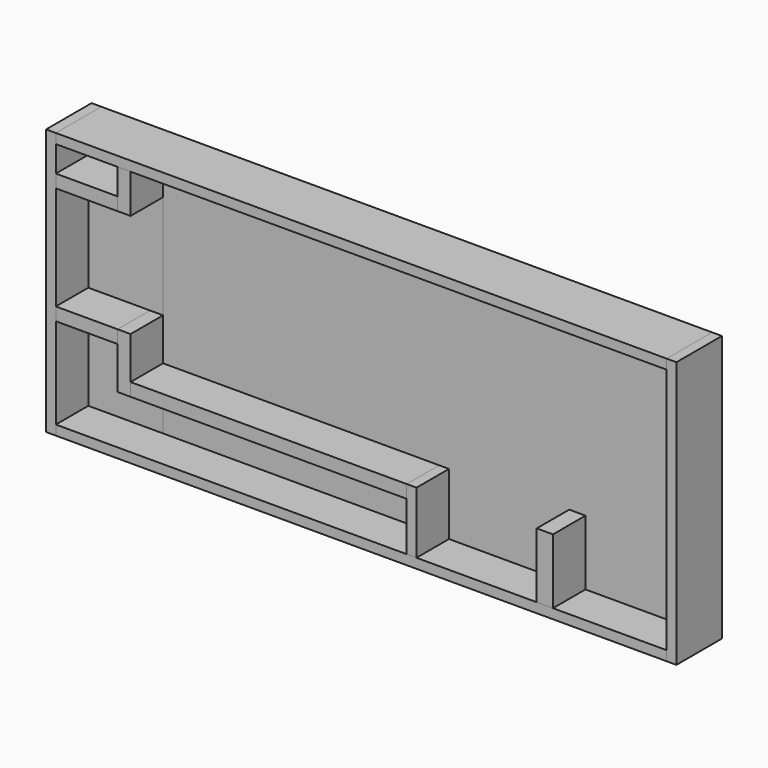
from build123d import *

# Parameters (mm, degrees)
BOX_W        = 165
BOX_H        = 5
BOX_DEPTH    = 76
BOX001_W     = 188
BOX001_H     = 17.5
BOX001_DEPTH = 3
BOX002_W     = 23
BOX002_H     = 5
BOX002_DEPTH = 76
BOX003_W     = 188
BOX003_H     = 17.5
BOX003_DEPTH = 3
BOX004_W     = 3
BOX004_H     = 17.5
BOX004_DEPTH = 82
BOX005_W     = 3
BOX005_H     = 17.5
BOX005_DEPTH = 82
BOX006_W     = 5
BOX006_H     = 12.5
BOX006_DEPTH = 20
BOX007_W     = 3
BOX007_H     = 12.5
BOX007_DEPTH = 19
BOX008_W     = 85
BOX008_H     = 12.5
BOX008_DEPTH = 4
BOX009_W     = 4
BOX009_H     = 12.5
BOX009_DEPTH = 17
BOX010_W     = 19
BOX010_H     = 12.5
BOX010_DEPTH = 4
BOX011_W     = 19
BOX011_H     = 12.5
BOX011_DEPTH = 4
BOX013_W     = 4
BOX013_H     = 12.5
BOX013_DEPTH = 12


with BuildPart() as base:
    # Box → Box (new body)
    with BuildSketch(Plane.XY):
        with Locations((82.5, 2.5)):
            Rectangle(BOX_W, BOX_H)
    extrude(amount=BOX_DEPTH)


with BuildPart() as box001:
    # Box001 → Box001 (new body)
    with BuildSketch(Plane(origin=(-23, -12.5, -3), x_dir=(1, 0, 0), z_dir=(0, 0, 1))):
        with Locations((94, 8.75)):
            Rectangle(BOX001_W, BOX001_H)
    extrude(amount=BOX001_DEPTH)


with BuildPart() as box002:
    # Box002 → Box002 (new body)
    with BuildSketch(Plane(origin=(-23, 0, 0), x_dir=(1, 0, 0), z_dir=(0, 0, 1))):
        with Locations((11.5, 2.5)):
            Rectangle(BOX002_W, BOX002_H)
    extrude(amount=BOX002_DEPTH)


with BuildPart() as box003:
    # Box003 → Box003 (new body)
    with BuildSketch(Plane(origin=(-23, -12.5, 76), x_dir=(1, 0, 0), z_dir=(0, 0, 1))):
        with Locations((94, 8.75)):
            Rectangle(BOX003_W, BOX003_H)
    extrude(amount=BOX003_DEPTH)


with BuildPart() as box004:
    # Box004 → Box004 (new body)
    with BuildSketch(Plane(origin=(-26, -12.5, -3), x_dir=(1, 0, 0), z_dir=(0, 0, 1))):
        with Locations((1.5, 8.75)):
            Rectangle(BOX004_W, BOX004_H)
    extrude(amount=BOX004_DEPTH)


with BuildPart() as box005:
    # Box005 → Box005 (new body)
    with BuildSketch(Plane(origin=(165, -12.5, -3), x_dir=(1, 0, 0), z_dir=(0, 0, 1))):
        with Locations((1.5, 8.75)):
            Rectangle(BOX005_W, BOX005_H)
    extrude(amount=BOX005_DEPTH)


with BuildPart() as box006:
    # Box006 → Box006 (new body)
    with BuildSketch(Plane(origin=(125, -12.5, 0), x_dir=(1, 0, 0), z_dir=(0, 0, 1))):
        with Locations((2.5, 6.25)):
            Rectangle(BOX006_W, BOX006_H)
    extrude(amount=BOX006_DEPTH)


with BuildPart() as box007:
    # Box007 → Box007 (new body)
    with BuildSketch(Plane(origin=(85, -12.5, 0), x_dir=(1, 0, 0), z_dir=(0, 0, 1))):
        with Locations((1.5, 6.25)):
            Rectangle(BOX007_W, BOX007_H)
    extrude(amount=BOX007_DEPTH)


with BuildPart() as box008:
    # Box008 → Box008 (new body)
    with BuildSketch(Plane(origin=(0, -12.5, 15), x_dir=(1, 0, 0), z_dir=(0, 0, 1))):
        with Locations((42.5, 6.25)):
            Rectangle(BOX008_W, BOX008_H)
    extrude(amount=BOX008_DEPTH)


with BuildPart() as box009:
    # Box009 → Box009 (new body)
    with BuildSketch(Plane(origin=(-4, -12.5, 15), x_dir=(1, 0, 0), z_dir=(0, 0, 1))):
        with Locations((2, 6.25)):
            Rectangle(BOX009_W, BOX009_H)
    extrude(amount=BOX009_DEPTH)


with BuildPart() as box010:
    # Box010 → Box010 (new body)
    with BuildSketch(Plane(origin=(-23, -12.5, 28), x_dir=(1, 0, 0), z_dir=(0, 0, 1))):
        with Locations((9.5, 6.25)):
            Rectangle(BOX010_W, BOX010_H)
    extrude(amount=BOX010_DEPTH)


with BuildPart() as box011:
    # Box011 → Box011 (new body)
    with BuildSketch(Plane(origin=(-23, -12.5, 64), x_dir=(1, 0, 0), z_dir=(0, 0, 1))):
        with Locations((9.5, 6.25)):
            Rectangle(BOX011_W, BOX011_H)
    extrude(amount=BOX011_DEPTH)


with BuildPart() as box013:
    # Box013 → Box013 (new body)
    with BuildSketch(Plane(origin=(-4, -12.5, 64), x_dir=(1, 0, 0), z_dir=(0, 0, 1))):
        with Locations((2, 6.25)):
            Rectangle(BOX013_W, BOX013_H)
    extrude(amount=BOX013_DEPTH)


solid = Compound([base.part, box001.part, box002.part, box003.part, box004.part, box005.part, box006.part, box007.part, box008.part, box009.part, box010.part, box011.part, box013.part])
